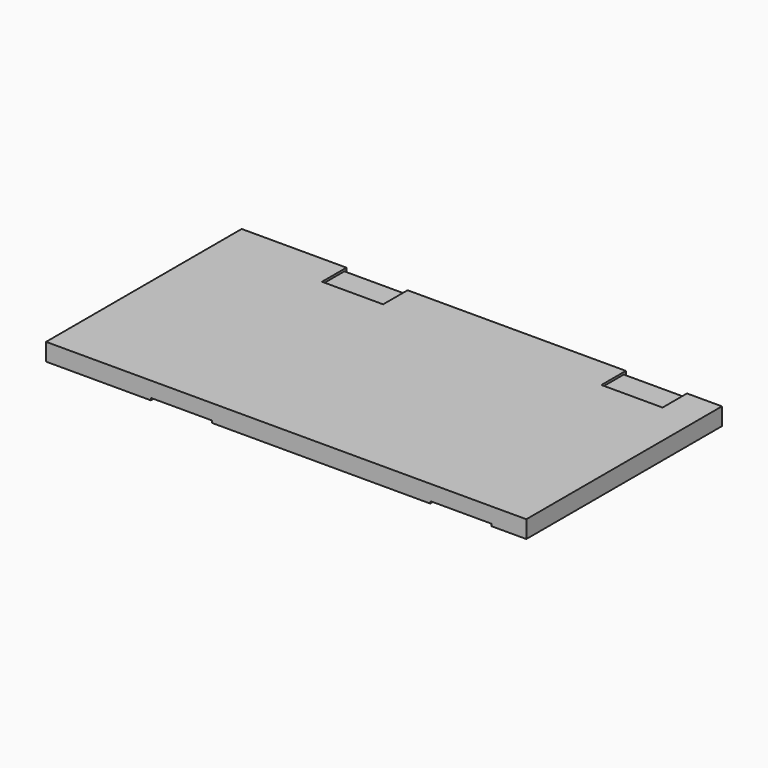
from build123d import *

# Parameters (mm, degrees)
F0_W     = 698.5
F0_H     = 355.6
F1_DEPTH = 25.4
F2_W     = 88.9
F2_H     = 44.45
F3_DEPTH = 3.175
F4_W     = 88.9
F4_H     = 44.45
F5_DEPTH = 3.175
F6_W     = 88.9
F6_H     = 3.81
F7_DEPTH = 3.81
F8_W     = 88.9
F8_H     = 3.81
F9_DEPTH = 3.81


with BuildPart() as f1:
    # F0 (on Top) → F1 (new body)
    with BuildSketch(Plane.XY):
        Rectangle(F0_W, F0_H)
    extrude(amount=F1_DEPTH)

    # F2 (on face) → F3 (cut)
    with BuildSketch(Plane.XY.offset(25.4)):
        with Locations((-152.4, 155.575)):
            Rectangle(F2_W, F2_H)
        with Locations((254, 155.575)):
            Rectangle(F2_W, F2_H)
    extrude(amount=-F3_DEPTH, mode=Mode.SUBTRACT)

    # F4 (on face) → F5 (cut)
    with BuildSketch(Plane(origin=(0, 0, 0), x_dir=(1, 0, 0), z_dir=(0, 0, -1))):
        with Locations((254, 155.575)):
            Rectangle(F4_W, F4_H)
        with Locations((-152.4, 155.575)):
            Rectangle(F4_W, F4_H)
    extrude(amount=-F5_DEPTH, mode=Mode.SUBTRACT)

    # F6 (on face) → F7 (cut)
    with BuildSketch(Plane.XY.offset(22.225)):
        with Locations((-152.4, 175.895)):
            Rectangle(F6_W, F6_H)
    extrude(amount=-F7_DEPTH, mode=Mode.SUBTRACT)

    # F8 (on face) → F9 (cut)
    with BuildSketch(Plane.XY.offset(22.225)):
        with Locations((254, 175.895)):
            Rectangle(F8_W, F8_H)
    extrude(amount=-F9_DEPTH, mode=Mode.SUBTRACT)


solid = f1.part
